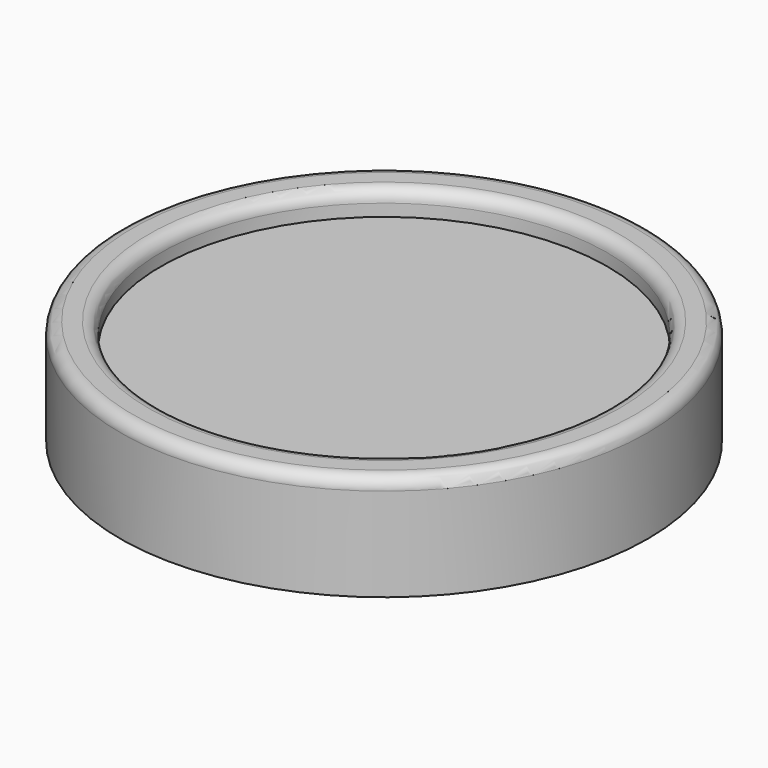
from build123d import *

# Parameters (mm, degrees)
F0_R     = 32.5
F0_R_2   = 27.5
F1_DEPTH = 10
F2_DEPTH = 8.5
F3_DEPTH = 13
F4_R     = 1.5


with BuildPart() as f1:
    # F0 (on Top) → F1 (new body)
    with BuildSketch(Plane.XY):
        Circle(F0_R)
        Circle(F0_R_2, mode=Mode.SUBTRACT)
        Circle(F0_R_2)
        Polygon((-8.55, 4.9363448016), (0, 9.8726896031), (8.55, 4.9363448016), (8.55, -4.9363448016), (0, -9.8726896031), (-8.55, -4.9363448016), align=None, mode=Mode.SUBTRACT)
        Polygon((8.55, 4.9363448016), (0, 9.8726896031), (-8.55, 4.9363448016), (-8.55, -4.9363448016), (0, -9.8726896031), (8.55, -4.9363448016), align=None)
    extrude(amount=F1_DEPTH)

    # F0 (on Top) → F2 (cut)
    with BuildSketch(Plane.XY):
        Polygon((8.55, 4.9363448016), (0, 9.8726896031), (-8.55, 4.9363448016), (-8.55, -4.9363448016), (0, -9.8726896031), (8.55, -4.9363448016), align=None)
    extrude(amount=F2_DEPTH, mode=Mode.SUBTRACT)

    # F0 (on Top) → F3 (join)
    with BuildSketch(Plane.XY):
        Circle(F0_R)
        Circle(F0_R_2, mode=Mode.SUBTRACT)
    extrude(amount=F3_DEPTH)

    # F4
    f4_edges = [f1.edges().sort_by_distance(p)[0] for p in [
        (-32.5, 0, 13),
        (-27.5, 0, 13),
    ]]
    fillet(f4_edges, radius=F4_R)


solid = f1.part
